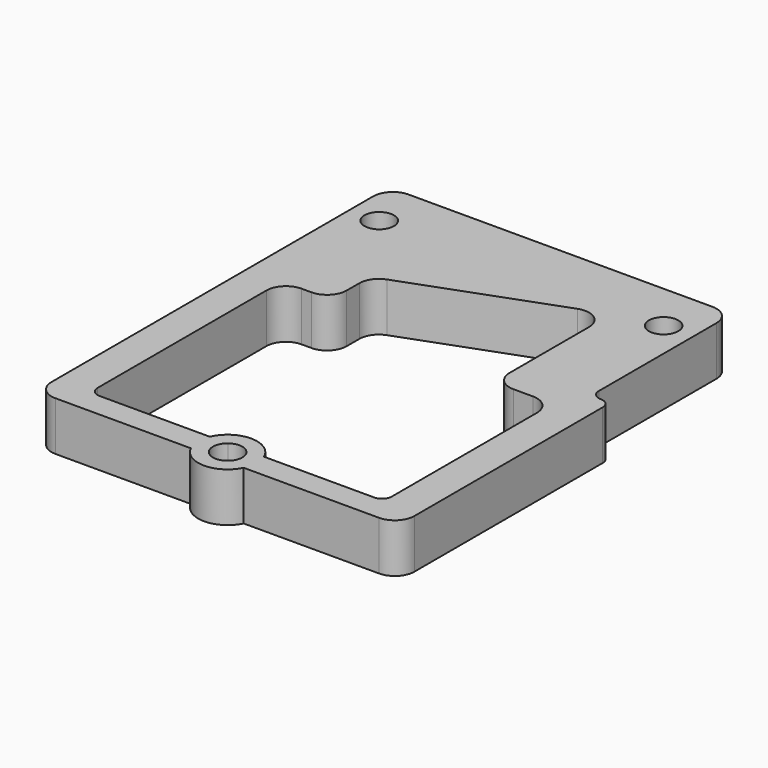
from build123d import *

# Parameters (mm, degrees)
F1_DEPTH = 2
F0_R     = 3
F0_R_2   = 1.5
F2_DEPTH = 5
F3_DEPTH = 5


with BuildPart() as f1:
    # F0 (on Top) → F1 (new body)
    with BuildSketch(Plane.XY):
        with BuildLine():
            Line((-5.4919344625, -24.5), (5.7497143832, -24.5))
            ThreePointArc((5.7497143832, -24.5), (8.5080655375, -22.6796181202), (11.2664166918, -24.5))
            Line((11.2664166918, -24.5), (22.5080655375, -24.5))
            ThreePointArc((22.5080655375, -24.5), (23.2151723187, -24.2071067812), (23.5080655375, -23.5))
            Line((23.5080655375, -23.5), (23.5080655375, -20))
            ThreePointArc((23.5080655375, -20), (22.9222790999, -21.4142135624), (21.5080655375, -22))
            Line((21.5080655375, -22), (-4.4919344625, -22))
            ThreePointArc((-4.4919344625, -22), (-5.9061480249, -21.4142135624), (-6.4919344625, -20))
            Line((-6.4919344625, -20), (-6.4919344625, -23.5))
            ThreePointArc((-6.4919344625, -23.5), (-6.1990412437, -24.2071067812), (-5.4919344625, -24.5))
        make_face()
    extrude(amount=F1_DEPTH)

    # F0 (on Top) → F2 (join)
    with BuildSketch(Plane.XY):
        with BuildLine():
            Line((23.0080655375, 18), (-7.9919344625, 18))
            ThreePointArc((-7.9919344625, 18), (-9.4061480249, 17.4142135624), (-9.9919344625, 16))
            Line((-9.9919344625, 16), (-9.9919344625, 13.0157731473))
            Line((-9.9919344625, 13.0157731473), (-9.9919344625, -25))
            ThreePointArc((-9.9919344625, -25), (-9.4061480249, -26.4142135624), (-7.9919344625, -27))
            Line((-7.9919344625, -27), (5.8142593657, -27))
            ThreePointArc((5.8142593657, -27), (5.5090648911, -25.7570462979), (5.7497143832, -24.5))
            Line((5.7497143832, -24.5), (-5.4919344625, -24.5))
            ThreePointArc((-5.4919344625, -24.5), (-6.1990412437, -24.2071067812), (-6.4919344625, -23.5))
            Line((-6.4919344625, -23.5), (-6.4919344625, -20))
            Line((-6.4919344625, -20), (-6.4919344625, -2))
            ThreePointArc((-6.4919344625, -2), (-5.9061480249, -0.5857864376), (-4.4919344625, 0))
            Line((-4.4919344625, 0), (-3.4919344625, 0))
            ThreePointArc((-3.4919344625, 0), (-2.0777209001, 0.5857864376), (-1.4919344625, 2))
            Line((-1.4919344625, 2), (-1.4919344625, 3.6054256072))
            ThreePointArc((-1.4919344625, 3.6054256072), (-1.1324864177, 4.7493614806), (-0.1833451802, 5.4821118409))
            Line((-0.1833451802, 5.4821118409), (14.8166548198, 11.0084276303))
            ThreePointArc((14.8166548198, 11.0084276303), (16.6520014109, 10.7722933519), (17.5080655375, 9.1317413967))
            Line((17.5080655375, 9.1317413967), (17.5080655375, -1))
            ThreePointArc((17.5080655375, -1), (18.0938519751, -2.4142135624), (19.5080655375, -3))
            Line((19.5080655375, -3), (21.5080655375, -3))
            ThreePointArc((21.5080655375, -3), (22.9222790999, -3.5857864376), (23.5080655375, -5))
            Line((23.5080655375, -5), (23.5080655375, -20))
            Line((23.5080655375, -20), (23.5080655375, -23.5))
            ThreePointArc((23.5080655375, -23.5), (23.2151723187, -24.2071067812), (22.5080655375, -24.5))
            Line((22.5080655375, -24.5), (11.2664166918, -24.5))
            ThreePointArc((11.2664166918, -24.5), (11.4470324872, -25.0775605909), (11.5080655375, -25.6796181202))
            ThreePointArc((11.5080655375, -25.6796181202), (11.4305147257, -26.357328045), (11.2018717093, -27))
            Line((11.2018717093, -27), (25.0080655375, -27))
            ThreePointArc((25.0080655375, -27), (26.4222790999, -26.4142135624), (27.0080655375, -25))
            Line((27.0080655375, -25), (27.0080655375, -1))
            ThreePointArc((27.0080655375, -1), (26.7151723187, -0.2928932188), (26.0080655375, 0))
            ThreePointArc((26.0080655375, 0), (25.3009587563, 0.2928932188), (25.0080655375, 1))
            Line((25.0080655375, 1), (25.0080655375, 13.0157731473))
            Line((25.0080655375, 13.0157731473), (25.0080655375, 16))
            ThreePointArc((25.0080655375, 16), (24.4222790999, 17.4142135624), (23.0080655375, 18))
        make_face()
        with BuildLine():
            ThreePointArc((-3.9919344625, 13.0157731473), (-6.9919344625, 10.0157731473), (-9.9919344625, 13.0157731473))
            ThreePointArc((-9.9919344625, 13.0157731473), (-6.9919344625, 16.0157731473), (-3.9919344625, 13.0157731473))
        make_face(mode=Mode.SUBTRACT)
        with Locations((22.0080655375, 13.0157731473)):
            Circle(F0_R, mode=Mode.SUBTRACT)
        with BuildLine():
            ThreePointArc((-3.9919344625, 13.0157731473), (-6.9919344625, 16.0157731473), (-9.9919344625, 13.0157731473))
            ThreePointArc((-9.9919344625, 13.0157731473), (-6.9919344625, 10.0157731473), (-3.9919344625, 13.0157731473))
        make_face()
        with Locations((-6.9919344625, 13.0157731473)):
            Circle(F0_R_2, mode=Mode.SUBTRACT)
        with Locations((22.0080655375, 13.0157731473)):
            Circle(F0_R)
        with Locations((22.0080655375, 13.0157731473)):
            Circle(F0_R_2, mode=Mode.SUBTRACT)
        with BuildLine():
            Line((7.7963129882, -27), (5.8142593657, -27))
            ThreePointArc((5.8142593657, -27), (8.5080655375, -28.6796181202), (11.2018717093, -27))
            Line((11.2018717093, -27), (9.2198180868, -27))
            ThreePointArc((9.2198180868, -27), (8.5080655375, -27.1796181202), (7.7963129882, -27))
        make_face()
        with BuildLine():
            ThreePointArc((5.7497143832, -24.5), (5.5090648911, -25.7570462979), (5.8142593657, -27))
            Line((5.8142593657, -27), (7.7963129882, -27))
            ThreePointArc((7.7963129882, -27), (7.0135717951, -25.8080254948), (7.5815121982, -24.5))
            Line((7.5815121982, -24.5), (5.7497143832, -24.5))
        make_face()
        with BuildLine():
            Line((9.2198180868, -27), (11.2018717093, -27))
            ThreePointArc((11.2018717093, -27), (11.4305147257, -26.357328045), (11.5080655375, -25.6796181202))
            ThreePointArc((11.5080655375, -25.6796181202), (11.4470324872, -25.0775605909), (11.2664166918, -24.5))
            Line((11.2664166918, -24.5), (9.4346188768, -24.5))
            ThreePointArc((9.4346188768, -24.5), (9.857107792, -25.0238094625), (10.0080655375, -25.6796181202))
            ThreePointArc((10.0080655375, -25.6796181202), (9.7960152306, -26.4485040597), (9.2198180868, -27))
        make_face()
    extrude(amount=F2_DEPTH)

    # F0 (on Top) → F3 (join)
    with BuildSketch(Plane.XY):
        with BuildLine():
            ThreePointArc((11.2664166918, -24.5), (8.5080655375, -22.6796181202), (5.7497143832, -24.5))
            Line((5.7497143832, -24.5), (7.5815121982, -24.5))
            ThreePointArc((7.5815121982, -24.5), (8.5080655375, -24.1796181202), (9.4346188768, -24.5))
            Line((9.4346188768, -24.5), (11.2664166918, -24.5))
        make_face()
    extrude(amount=F3_DEPTH)


solid = f1.part
